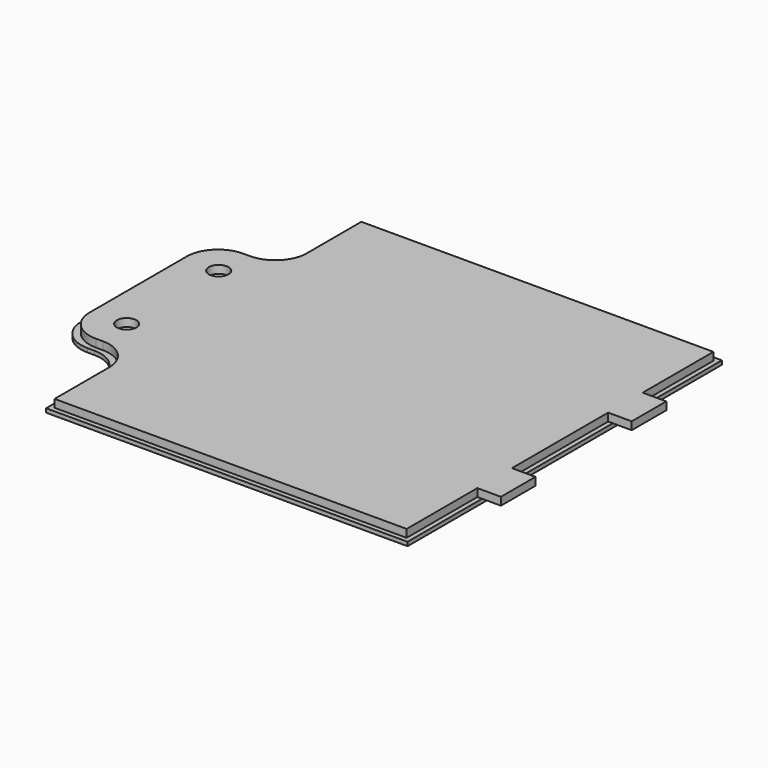
from build123d import *

# Parameters (mm, degrees)
F0_W           = 8.89
F0_H           = 24.64
F1_DEPTH       = 0.5
F3_DEPTH       = 1
F4_R           = 4
F6_D           = 2.5
F6_CBORE_D     = 7
F6_CBORE_DEPTH = 0.5
F7_W           = 5.5
F7_H           = 1
F8_DEPTH       = 3


with BuildPart() as f1:
    # F0 (on Top) → F1 (new body)
    with BuildSketch(Plane.XY):
        Polygon((-23, -25), (23, -25), (23, 25), (-23, 25), (-23, 12.32), (-23, -12.32), align=None)
        with Locations((-27.445, 0)):
            Rectangle(F0_W, F0_H)
    extrude(amount=F1_DEPTH)

    # F2 (on face) → F3 (join)
    with BuildSketch(Plane.XY.offset(0.5)):
        Polygon((-22.4, -24.4), (22.4, -24.4), (22.4, 24.4), (-22.4, 24.4), (-22.4, 11.72), (-31.29, 11.72), (-31.29, -11.72), (-22.4, -11.72), align=None)
    extrude(amount=F3_DEPTH)

    # F4
    f4_edges = [f1.edges().sort_by_distance(p)[0] for p in [
        (-31.89, 12.32, 0.25),
        (-31.29, 11.72, 1),
        (-23, 12.32, 0.25),
        (-22.4, 11.72, 1),
        (-31.29, -11.72, 1),
        (-31.89, -12.32, 0.25),
        (-23, -12.32, 0.25),
        (-22.4, -11.72, 1),
    ]]
    fillet(f4_edges, radius=F4_R)

    # F6 (through all)
    with Locations(Plane(origin=(0, 0, 0), x_dir=(1, 0, 0), z_dir=(0, 0, -1))):
        with Locations((-26.89, -7.32), (-26.89, 7.32)):
            CounterBoreHole(F6_D / 2, F6_CBORE_D / 2, F6_CBORE_DEPTH)

    # F7 (on face) → F8 (join)
    with BuildSketch(Plane.YZ.offset(22.4)):
        with Locations((-10.4, 1)):
            Rectangle(F7_W, F7_H)
        with Locations((10.4, 1)):
            Rectangle(F7_W, F7_H)
    extrude(amount=F8_DEPTH)


solid = f1.part
